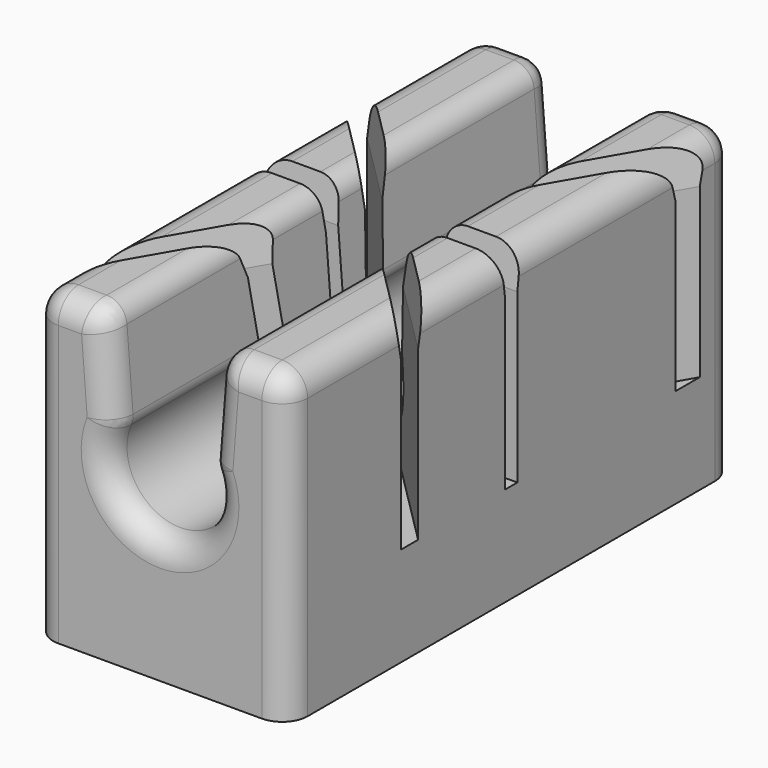
from build123d import *

# Parameters (mm, degrees)
PAD_DEPTH            = 11
POCKET_DEPTH         = 5.001
POCKET_DEPTH_BACK    = 5.001
POCKET001_DEPTH      = 11.314708
POCKET001_DEPTH_BACK = 11.314708
POCKET002_DEPTH      = 12.027279
POCKET002_DEPTH_BACK = 12.027279
FILLET_R             = 1


with BuildPart() as part:
    # Sketch → Pad (new body, symmetric)
    with BuildSketch(Plane.XZ):
        with BuildLine():
            Line((5, 5), (5, -7))
            Line((5, -7), (-5, -7))
            Line((-5, -7), (-5, 5))
            Line((-5, 5), (-2.897576, 5))
            ThreePointArc((-2.1, 4.262231), (-2.354338, 4.787276), (-2.897576, 5))
            Line((-2.1, 4.262231), (-1.862424, 1.217394))
            ThreePointArc((-1.926207, 0.836497), (-1.870986, 1.023039), (-1.862424, 1.217394))
            ThreePointArc((-1.926207, 0.836497), (0, -2.1), (1.926207, 0.836497))
            ThreePointArc((1.862424, 1.217394), (1.870986, 1.023039), (1.926207, 0.836497))
            Line((2.1, 4.262231), (1.862424, 1.217394))
            ThreePointArc((2.897576, 5), (2.354338, 4.787276), (2.1, 4.262231))
            Line((2.897576, 5), (5, 5))
        make_face()
    extrude(amount=PAD_DEPTH, both=True)

    # Sketch001 → Pocket (cut, two sides)
    with BuildSketch(Plane.YZ) as pocket_sk:
        Polygon((-0.3, -3.1), (0.3, -3.1), (0.3, 3.5), (0.5, 5), (-0.5, 5), (-0.3, 3.5), align=None)
    extrude(amount=-POCKET_DEPTH, mode=Mode.SUBTRACT)
    extrude(pocket_sk.sketch, amount=POCKET_DEPTH_BACK, mode=Mode.SUBTRACT)

    # Sketch002 → Pocket001 (cut, two sides)
    with BuildSketch(Plane(origin=(0, 0, 0), x_dir=(0.707107, 0.707107, 0), z_dir=(0.707107, -0.707107, 0))) as pocket001_sk:
        Polygon((-0.3, -3.1), (0.3, -3.1), (0.3, 3.5), (0.5, 5), (-0.5, 5), (-0.3, 3.5), align=None)
    extrude(amount=-POCKET001_DEPTH, mode=Mode.SUBTRACT)
    extrude(pocket001_sk.sketch, amount=POCKET001_DEPTH_BACK, mode=Mode.SUBTRACT)

    # Sketch003 → Pocket002 (cut, two sides)
    with BuildSketch(Plane(origin=(0, 0, 0), x_dir=(-0.866025, 0.5, 0), z_dir=(0.5, 0.866025, 0))) as pocket002_sk:
        Polygon((-0.3, -3.1), (0.3, -3.1), (0.3, 3.5), (0.5, 5), (-0.5, 5), (-0.3, 3.5), align=None)
    extrude(amount=-POCKET002_DEPTH, mode=Mode.SUBTRACT)
    extrude(pocket002_sk.sketch, amount=POCKET002_DEPTH_BACK, mode=Mode.SUBTRACT)

    # Fillet
    fillet_edges = [part.edges().sort_by_distance(p)[0] for p in [
        (-5, -11, -1),
        (-3.948788, -11, 5),
        (-5, -10.330127, 5),
        (-5, -4.080127, 5),
        (-5, 2.396447, 5),
        (-5, 8.353553, 5),
        (-5, 11, -1),
        (-3.948788, 11, 5),
        (5, 10.330127, 5),
        (5, 4.080127, 5),
        (5, 11, -1),
        (5, -11, -1),
        (5, -8.353553, 5),
        (5, -2.396447, 5),
    ]]
    fillet(fillet_edges, radius=FILLET_R)


solid = part.part
